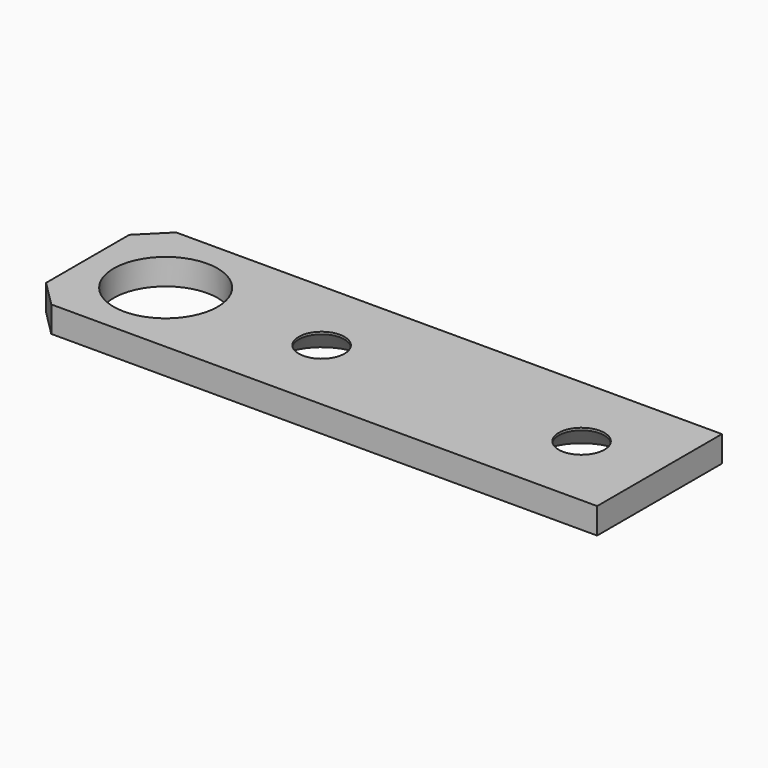
from build123d import *

# Parameters (mm, degrees)
F0_W           = 110
F0_H           = 30
F0_R           = 10
F1_DEPTH       = 5
F2_SIZE        = 5
F3_D           = 8.8
F3_CSINK_D     = 17.92
F3_CSINK_ANGLE = 90


with BuildPart() as f1:
    # F0 (on Top) → F1 (new body)
    with BuildSketch(Plane.XY):
        with Locations((55, 15)):
            Rectangle(F0_W, F0_H)
        with Locations((15, 15)):
            Circle(F0_R, mode=Mode.SUBTRACT)
    extrude(amount=F1_DEPTH)

    # F2
    f2_edges = [f1.edges().sort_by_distance(p)[0] for p in [
        (0, 30, 2.5),
        (0, 0, 2.5),
    ]]
    chamfer(f2_edges, length=F2_SIZE)

    # F3 (through all)
    with Locations(Plane(origin=(0, 0, 0), x_dir=(1, 0, 0), z_dir=(0, 0, -1))):
        with Locations((95, -15), (45, -15)):
            CounterSinkHole(F3_D / 2, F3_CSINK_D / 2, counter_sink_angle=F3_CSINK_ANGLE)


solid = f1.part
